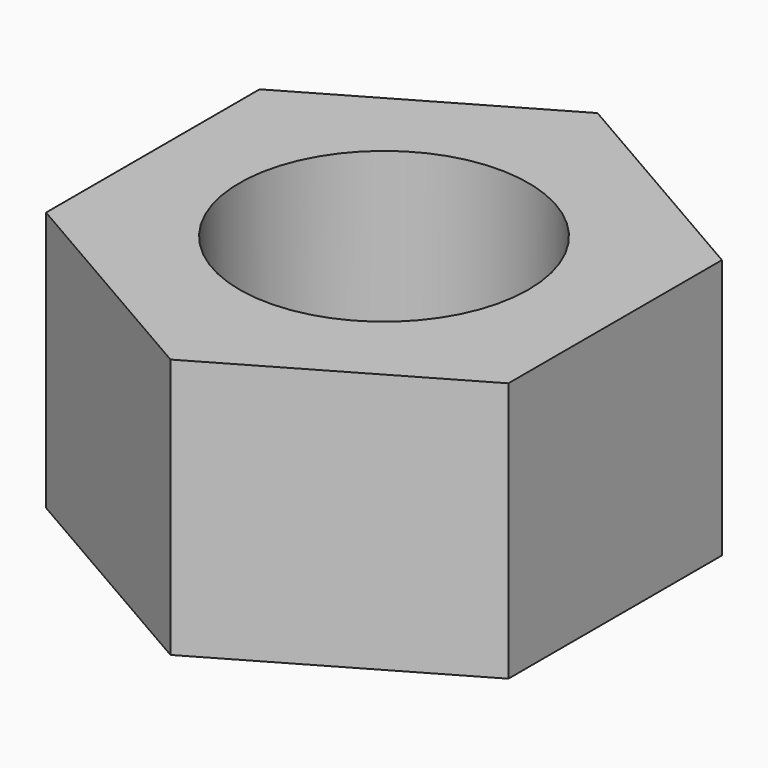
from build123d import *

# Parameters (mm, degrees)
SKETCH_R  = 2.5
PAD_DEPTH = 4.5


with BuildPart() as part:
    # Sketch → Pad (new body)
    with BuildSketch(Plane.XY):
        Polygon((4, 2.309401), (0, 4.618802), (-4, 2.309401), (-4, -2.309401), (0, -4.618802), (4, -2.309401), align=None)
        Circle(SKETCH_R, mode=Mode.SUBTRACT)
    extrude(amount=PAD_DEPTH)


solid = part.part
